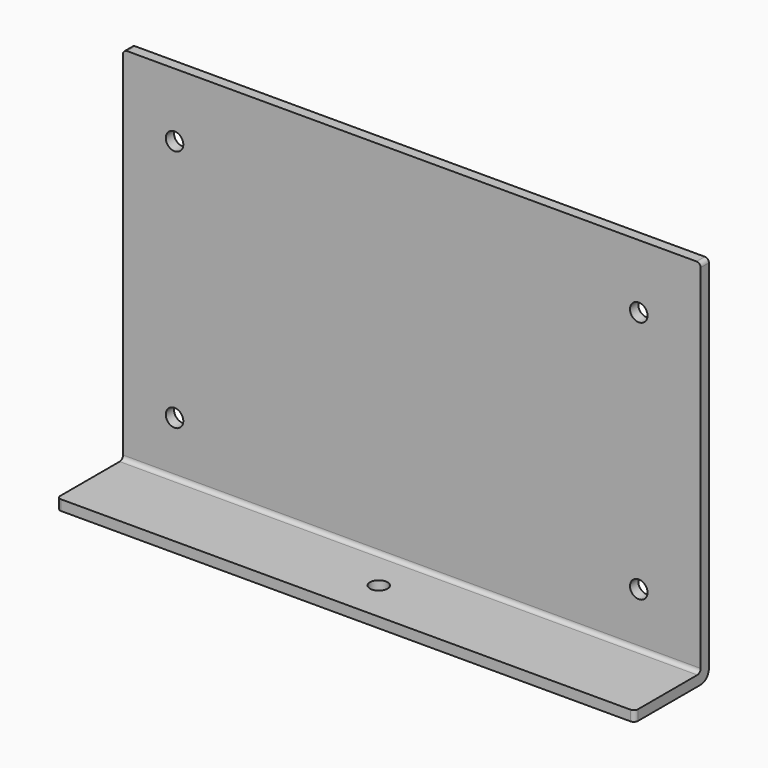
from build123d import *

# Parameters (mm, degrees)
F1_DEPTH = 280
F2_R     = 4.25
F3_DEPTH = 5.001
F4_R     = 2
F5_R     = 5
F6_R     = 4.25
F7_DEPTH = 5.001


with BuildPart() as f1:
    # F0 (on Right) → F1 (new body)
    with BuildSketch(Plane.YZ):
        Polygon((5, -92.5), (5, 87.5), (0, 87.5), (0, -87.5), (-40, -87.5), (-40, -92.5), align=None)
    extrude(amount=F1_DEPTH)

    # F2 (on face) → F3 (cut, through all)
    with BuildSketch(Plane.XZ):
        with Locations((25, 56.499322)):
            Circle(F2_R)
        with Locations((250, 56.654073)):
            Circle(F2_R)
        with Locations((250, -61.5)):
            Circle(F2_R)
        with Locations((25, -61.5)):
            Circle(F2_R)
    extrude(amount=-F3_DEPTH, mode=Mode.SUBTRACT)

    # F4
    f4_edges = [f1.edges().sort_by_distance(p)[0] for p in [
        (280, 2.5, 87.5),
        (0, 2.5, 87.5),
        (0, -40, -90),
        (280, -40, -90),
        (140, 0, -87.5),
    ]]
    fillet(f4_edges, radius=F4_R)

    # F5
    f5_edges = [f1.edges().sort_by_distance(p)[0] for p in [
        (140, 5, -92.5),
    ]]
    fillet(f5_edges, radius=F5_R)

    # F6 (on face) → F7 (cut, through all)
    with BuildSketch(Plane.XY.offset(-87.5)):
        with Locations((140, -20)):
            Circle(F6_R)
    extrude(amount=-F7_DEPTH, mode=Mode.SUBTRACT)


solid = f1.part
